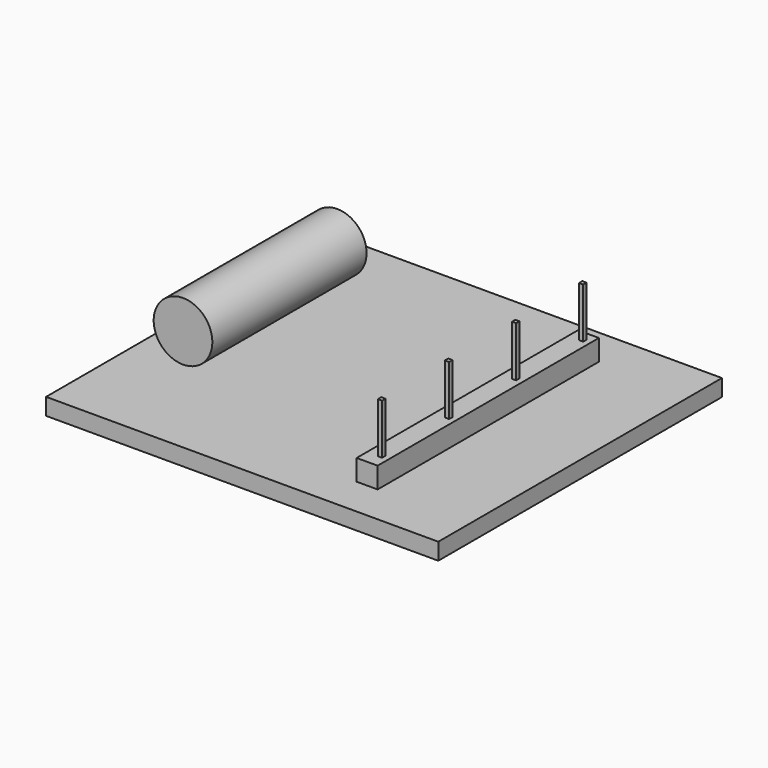
from build123d import *

# Parameters (mm, degrees)
F2_W      = 46.8
F2_H      = 42.3
F3_DEPTH  = 2
F5_R      = 3.5
F6_DEPTH  = 23
F7_W      = 2.5
F7_H      = 33
F8_DEPTH  = 2.5
F9_W      = 0.5
F9_H      = 0.5
F10_DEPTH = 6
F11_W     = 4
F11_H     = 10
F12_DEPTH = 2.5
F13_W     = 0.3
F13_H     = 0.3000002508
F14_DEPTH = 5


with BuildPart() as f3:
    # F2 (on Top) → F3 (new body)
    with BuildSketch(Plane.XY):
        Rectangle(F2_W, F2_H)
    extrude(amount=F3_DEPTH)


with BuildPart() as f6:
    # F5 (on offset) → F6 (new body)
    with BuildSketch(Plane.XZ.offset(-14.15)):
        with Locations((-16.9, 6)):
            Circle(F5_R)
    extrude(amount=F6_DEPTH)


with BuildPart() as f8:
    # F7 (on face) → F8 (new body)
    with BuildSketch(Plane.XY.offset(2)):
        with Locations((11.15, 0.05)):
            Rectangle(F7_W, F7_H)
    extrude(amount=F8_DEPTH)


with BuildPart() as f10:
    # F9 (on face) → F10 (new body)
    with BuildSketch(Plane.XY.offset(4.5)):
        with Locations((11.4765835703, 15.3)):
            Rectangle(F9_W, F9_H)
    extrude(amount=F10_DEPTH)


with BuildPart() as f10b:
    # F9 (on face) → F10, piece 2 (new body)
    with BuildSketch(Plane.XY.offset(4.5)):
        with Locations((11.4765835703, 5.3)):
            Rectangle(F9_W, F9_H)
    extrude(amount=F10_DEPTH)


with BuildPart() as f10c:
    # F9 (on face) → F10, piece 3 (new body)
    with BuildSketch(Plane.XY.offset(4.5)):
        with Locations((11.4765835703, -4.7)):
            Rectangle(F9_W, F9_H)
    extrude(amount=F10_DEPTH)


with BuildPart() as f10d:
    # F9 (on face) → F10, piece 4 (new body)
    with BuildSketch(Plane.XY.offset(4.5)):
        with Locations((11.4765835703, -14.7)):
            Rectangle(F9_W, F9_H)
    extrude(amount=F10_DEPTH)


with BuildPart() as f12:
    # F11 (on face) → F12 (new body)
    with BuildSketch(Plane(origin=(0, 0, 0), x_dir=(1, 0, 0), z_dir=(0, 0, -1))):
        with Locations((-6.9, -9.15)):
            Rectangle(F11_W, F11_H)
    extrude(amount=F12_DEPTH)


with BuildPart() as f14:
    # F13 (on face) → F14 (new body)
    with BuildSketch(Plane(origin=(0, 0, -2.5), x_dir=(1, 0, 0), z_dir=(0, 0, -1))):
        with Locations((-7.75, -5.1000001254)):
            Rectangle(F13_W, F13_H)
    extrude(amount=F14_DEPTH)


with BuildPart() as f14b:
    # F13 (on face) → F14, piece 2 (new body)
    with BuildSketch(Plane(origin=(0, 0, -2.5), x_dir=(1, 0, 0), z_dir=(0, 0, -1))):
        with Locations((-7.75, -7.1000001254)):
            Rectangle(F13_W, F13_H)
    extrude(amount=F14_DEPTH)


with BuildPart() as f14c:
    # F13 (on face) → F14, piece 3 (new body)
    with BuildSketch(Plane(origin=(0, 0, -2.5), x_dir=(1, 0, 0), z_dir=(0, 0, -1))):
        with Locations((-7.75, -9.1000001254)):
            Rectangle(F13_W, F13_H)
    extrude(amount=F14_DEPTH)


with BuildPart() as f14d:
    # F13 (on face) → F14, piece 4 (new body)
    with BuildSketch(Plane(origin=(0, 0, -2.5), x_dir=(1, 0, 0), z_dir=(0, 0, -1))):
        with Locations((-7.75, -11.1000001254)):
            Rectangle(F13_W, F13_H)
    extrude(amount=F14_DEPTH)


with BuildPart() as f14e:
    # F13 (on face) → F14, piece 5 (new body)
    with BuildSketch(Plane(origin=(0, 0, -2.5), x_dir=(1, 0, 0), z_dir=(0, 0, -1))):
        with Locations((-7.75, -13.1000001254)):
            Rectangle(F13_W, F13_H)
    extrude(amount=F14_DEPTH)


with BuildPart() as f14f:
    # F13 (on face) → F14, piece 6 (new body)
    with BuildSketch(Plane(origin=(0, 0, -2.5), x_dir=(1, 0, 0), z_dir=(0, 0, -1))):
        with Locations((-5.75, -5.1000001254)):
            Rectangle(F13_W, F13_H)
    extrude(amount=F14_DEPTH)


with BuildPart() as f14g:
    # F13 (on face) → F14, piece 7 (new body)
    with BuildSketch(Plane(origin=(0, 0, -2.5), x_dir=(1, 0, 0), z_dir=(0, 0, -1))):
        with Locations((-5.75, -7.1000001254)):
            Rectangle(F13_W, F13_H)
    extrude(amount=F14_DEPTH)


with BuildPart() as f14h:
    # F13 (on face) → F14, piece 8 (new body)
    with BuildSketch(Plane(origin=(0, 0, -2.5), x_dir=(1, 0, 0), z_dir=(0, 0, -1))):
        with Locations((-5.75, -9.1000001254)):
            Rectangle(F13_W, F13_H)
    extrude(amount=F14_DEPTH)


with BuildPart() as f14i:
    # F13 (on face) → F14, piece 9 (new body)
    with BuildSketch(Plane(origin=(0, 0, -2.5), x_dir=(1, 0, 0), z_dir=(0, 0, -1))):
        with Locations((-5.75, -11.1000001254)):
            Rectangle(F13_W, F13_H)
    extrude(amount=F14_DEPTH)


with BuildPart() as f14j:
    # F13 (on face) → F14, piece 10 (new body)
    with BuildSketch(Plane(origin=(0, 0, -2.5), x_dir=(1, 0, 0), z_dir=(0, 0, -1))):
        with Locations((-5.75, -13.1000001254)):
            Rectangle(F13_W, F13_H)
    extrude(amount=F14_DEPTH)


solid = Compound([f3.part, f6.part, f8.part, f10.part, f10b.part, f10c.part, f10d.part, f12.part, f14.part, f14b.part, f14c.part, f14d.part, f14e.part, f14f.part, f14g.part, f14h.part, f14i.part, f14j.part])
